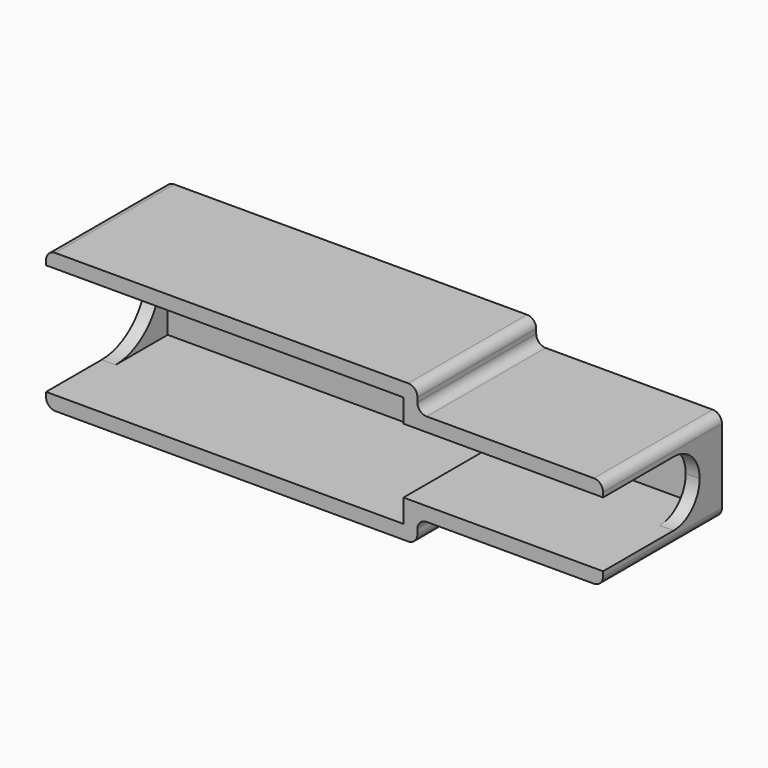
from build123d import *

# Parameters (mm, degrees)
F1_DEPTH = 16
F2_T     = -1.5
F4_DEPTH = 25
F6_DEPTH = 25
F7_R     = 1


with BuildPart() as f1:
    # F0 (on Front) → F1 (new body)
    with BuildSketch(Plane.XZ):
        Polygon((10, 7.5), (-30, 7.5), (-30, -7.5), (10, -7.5), (10, -5), (30, -5), (30, 5), (10, 5), align=None)
    extrude(amount=F1_DEPTH)

    # F2
    f2_openings = [f1.faces().sort_by_distance(p)[0] for p in [
        (-2.5, -16, 0),
    ]]
    offset(amount=F2_T, openings=f2_openings, kind=Kind.INTERSECTION)

    # F3 (on face) → F4 (cut)
    with BuildSketch(Plane.YZ.offset(30)):
        with BuildLine():
            ThreePointArc((-6.5, -3.5), (-10, 0), (-6.5, 3.5))
            Line((-6.5, 3.5), (-16, 3.5))
            Line((-16, 3.5), (-16, -3.5))
            Line((-16, -3.5), (-6.5, -3.5))
        make_face()
        with BuildLine():
            ThreePointArc((-6.5, -3.5), (-4.0251262658, -2.4748737342), (-3, 0))
            ThreePointArc((-3, 0), (-4.0251262658, 2.4748737342), (-6.5, 3.5))
            ThreePointArc((-6.5, 3.5), (-10, 0), (-6.5, -3.5))
        make_face()
    extrude(amount=-F4_DEPTH, mode=Mode.SUBTRACT)

    # F5 (on face) → F6 (cut)
    with BuildSketch(Plane(origin=(-30, 0, 0), x_dir=(0, -1, 0), z_dir=(-1, 0, 0))):
        with BuildLine():
            ThreePointArc((8.5, -6), (12.7426406871, -4.2426406871), (14.5, 0))
            ThreePointArc((14.5, 0), (12.7426406871, 4.2426406871), (8.5, 6))
            ThreePointArc((8.5, 6), (2.5, 0), (8.5, -6))
        make_face()
        with BuildLine():
            ThreePointArc((8.5, 6), (12.7426406871, 4.2426406871), (14.5, 0))
            ThreePointArc((14.5, 0), (12.7426406871, -4.2426406871), (8.5, -6))
            Line((8.5, -6), (16, -6))
            Line((16, -6), (16, 6))
            Line((16, 6), (8.5, 6))
        make_face()
    extrude(amount=-F6_DEPTH, mode=Mode.SUBTRACT)

    # F7
    f7_edges = [f1.edges().sort_by_distance(p)[0] for p in [
        (-30, -8, -7.5),
        (-30, -8, 7.5),
        (10, -8, 5),
        (10, -8, 7.5),
        (10, -8, -7.5),
        (10, -8, -5),
        (30, -8, -5),
        (30, -8, 5),
    ]]
    fillet(f7_edges, radius=F7_R)


solid = f1.part
